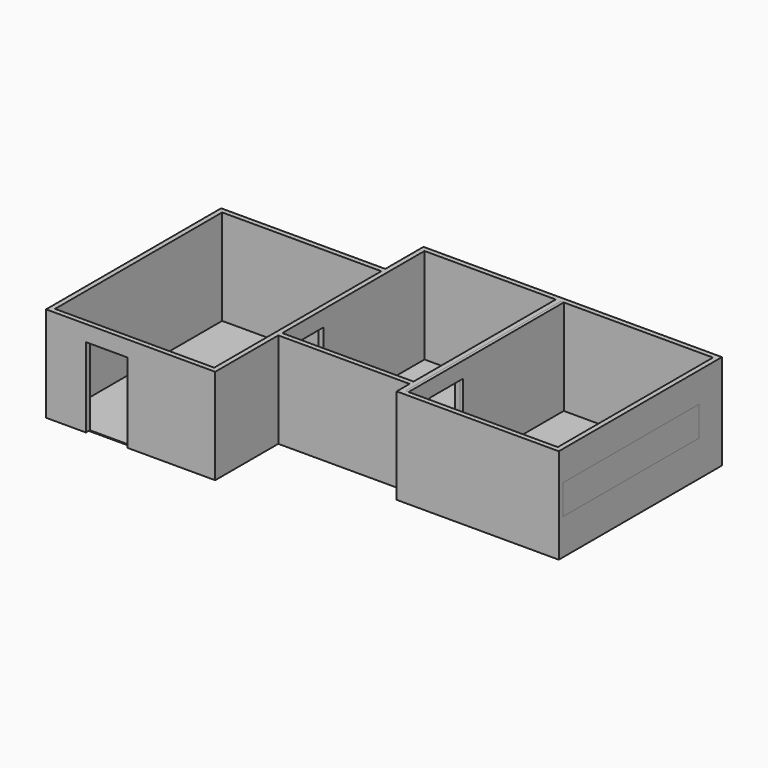
from build123d import *

# Parameters (mm, degrees)
F1_DEPTH      = 25.4
F2_W          = 3886.2
F2_H          = 127
F2_W_2        = 127
F2_H_2        = 4953
F2_W_3        = 4064
F3_DEPTH      = 2438.4
F4_W          = 1066.8
F4_H          = 2032
F5_DEPTH      = 127
F5_DEPTH_BACK = 3530.6
F6_W          = 1066.8
F6_H          = 2032
F7_DEPTH      = 127
F8_W          = 4343.4
F8_H          = 762
F9_DEPTH      = 127
F10_W         = 4343.4
F10_H         = 762
F11_DEPTH     = 25.4
F13_DEPTH     = 2438.4
F18_DEPTH     = 76.2


with BuildPart() as f1:
    # F0 (on Top) → F1 (new body)
    with BuildSketch(Plane.XY):
        Polygon((4267.1020812988, 2754.5213634491), (380.9020812988, 2754.5213634491), (-3098.8979187012, 2754.5213634491), (-3098.8979187012, 1535.3213634491), (-7289.8979187012, 1535.3213634491), (-7289.8979187012, -3798.6786365509), (-3225.8979187012, -3798.6786365509), (-3225.8979187012, -1784.5769438744), (380.9020812988, -1784.5769438744), (380.9020812988, -2198.4786365509), (4267.1020812988, -2198.4786365509), align=None)
    extrude(amount=F1_DEPTH)


with BuildPart() as f3:
    # F2 (on face) → F3 (new body)
    with BuildSketch(Plane.XY.offset(25.4)):
        with Locations((2324.0020812988, -2261.9786365509)):
            Rectangle(F2_W, F2_H)
        Polygon((380.9020812988, -2325.4786365509), (380.9020812988, -2198.4786365509), (380.9020812988, -1991.5277902126), (380.9020812988, -1784.5769438744), (380.9020812988, 2754.5213634491), (253.9020812988, 2754.5213634491), (253.9020812988, -1784.5769438744), (-3098.8979187012, -1784.5769438744), (-3225.8979187012, -1784.5769438744), (-3225.8979187012, -1991.5277902126), (-3225.8979187012, -3798.6786365509), (-3225.8979187012, -3925.6786365509), (-3098.8979187012, -3925.6786365509), (-3098.8979187012, -1911.5769438744), (253.9020812988, -1911.5769438744), (253.9020812988, -2325.4786365509), align=None)
        with Locations((4330.6020812988, 278.0213634491)):
            Rectangle(F2_W_2, F2_H_2)
        with Locations((4330.6020812988, -2261.9786365509)):
            Rectangle(F2_W_2, F2_H)
        Polygon((380.9020812988, 2754.5213634491), (4267.1020812988, 2754.5213634491), (4394.1020812988, 2754.5213634491), (4394.1020812988, 2881.5213634491), (-3098.8979187012, 2881.5213634491), (-3098.8979187012, 2754.5213634491), (253.9020812988, 2754.5213634491), align=None)
        Polygon((-3098.8979187012, 2754.5213634491), (-3098.8979187012, 2881.5213634491), (-3225.8979187012, 2881.5213634491), (-3225.8979187012, 1662.3213634491), (-3225.8979187012, 1535.3213634491), (-3225.8979187012, -1784.5769438744), (-3098.8979187012, -1784.5769438744), (-3098.8979187012, 1535.3213634491), (-3098.8979187012, 1662.3213634491), align=None)
        Polygon((-7416.8979187012, -3925.6786365509), (-3225.8979187012, -3925.6786365509), (-3225.8979187012, -3798.6786365509), (-7289.8979187012, -3798.6786365509), (-7416.8979187012, -3798.6786365509), align=None)
        with Locations((-5257.8979187012, 1598.8213634491)):
            Rectangle(F2_W_3, F2_H)
        Polygon((-7289.8979187012, 1535.3213634491), (-7289.8979187012, 1662.3213634491), (-7416.8979187012, 1662.3213634491), (-7416.8979187012, -3798.6786365509), (-7289.8979187012, -3798.6786365509), align=None)
    extrude(amount=F3_DEPTH)

    # F4 (on face) → F5 (cut, two sides)
    with BuildSketch(Plane(origin=(253.9020812988, 0, 0), x_dir=(0, -1, 0), z_dir=(-1, 0, 0))) as f5_sk:
        with Locations((997.1769438744, 1041.4)):
            Rectangle(F4_W, F4_H)
    extrude(amount=-F5_DEPTH, mode=Mode.SUBTRACT)
    extrude(f5_sk.sketch, amount=F5_DEPTH_BACK, mode=Mode.SUBTRACT)

    # F6 (on face) → F7 (cut)
    with BuildSketch(Plane(origin=(0, -3798.6786365509, 0), x_dir=(-1, 0, 0), z_dir=(0, 1, 0))):
        with Locations((5867.4979187012, 1041.4)):
            Rectangle(F6_W, F6_H)
    extrude(amount=-F7_DEPTH, mode=Mode.SUBTRACT)

    # F8 (on face) → F9 (cut)
    with BuildSketch(Plane(origin=(4267.1020812988, 0, 0), x_dir=(0, -1, 0), z_dir=(-1, 0, 0))):
        with Locations((26.7786365509, 1320.8)):
            Rectangle(F8_W, F8_H)
    extrude(amount=-F9_DEPTH, mode=Mode.SUBTRACT)


with BuildPart() as f11:
    # F10 (on face) → F11 (new body)
    with BuildSketch(Plane.YZ.offset(4394.1020812988)):
        with Locations((-26.7786365509, 1320.8)):
            Rectangle(F10_W, F10_H)
    extrude(amount=-F11_DEPTH)


with BuildPart() as f13:
    # F12 (on face) → F13 (new body)
    with BuildSketch(Plane.XY.offset(25.4)):
        Polygon((2031.9020812988, 2754.5213634491), (380.9020812988, 2754.5213634491), (380.9020812988, 595.5213634491), (380.9020812988, 290.7213634491), (2336.7020812988, 2754.5213634491), align=None)
    extrude(amount=F13_DEPTH)


with BuildPart() as f14_1:
    # F14: copy of F13
    add(f13.part)


with BuildPart() as f18:
    # F17 (on face) → F18 (new body)
    with BuildSketch(Plane.YZ.offset(380.9020812988)):
        Polygon((-463.7769438744, 25.4), (2754.5213634491, 25.4), (2754.5213634491, 2463.8), (-2198.4786365509, 2463.8), (-2198.4786365509, 25.4), (-1530.5769438744, 25.4), (-1530.5769438744, 2057.4), (-463.7769438744, 2057.4), align=None)
    extrude(amount=F18_DEPTH)


solid = Compound([f1.part, f3.part, f11.part, f18.part])
